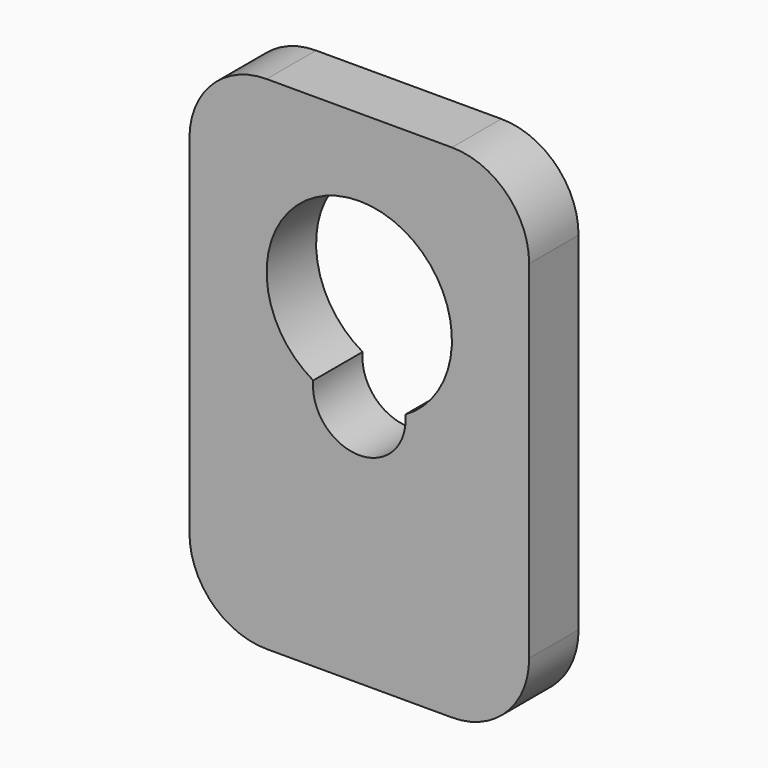
from build123d import *

# Parameters (mm, degrees)
F1_W     = 22
F1_H     = 32.5
F2_DEPTH = 4
F3_DEPTH = 4.001
F4_R     = 5


with BuildPart() as f2:
    # F1 (on Front) → F2 (new body)
    with BuildSketch(Plane.XZ):
        with Locations((0, -5.25)):
            Rectangle(F1_W, F1_H)
    extrude(amount=F2_DEPTH)

    # F0 (on Front) → F3 (cut, through all)
    with BuildSketch(Plane.XZ):
        with BuildLine():
            ThreePointArc((-2.985416, -5.204545), (0, -8.5), (2.985416, -5.204545))
            ThreePointArc((2.985416, -5.204545), (0, 6), (-2.985416, -5.204545))
        make_face()
    extrude(amount=F3_DEPTH, mode=Mode.SUBTRACT)

    # F4
    f4_edges = [f2.edges().sort_by_distance(p)[0] for p in [
        (11, -2, 11),
        (-11, -2, 11),
        (-11, -2, -21.5),
        (11, -2, -21.5),
    ]]
    fillet(f4_edges, radius=F4_R)


solid = f2.part
